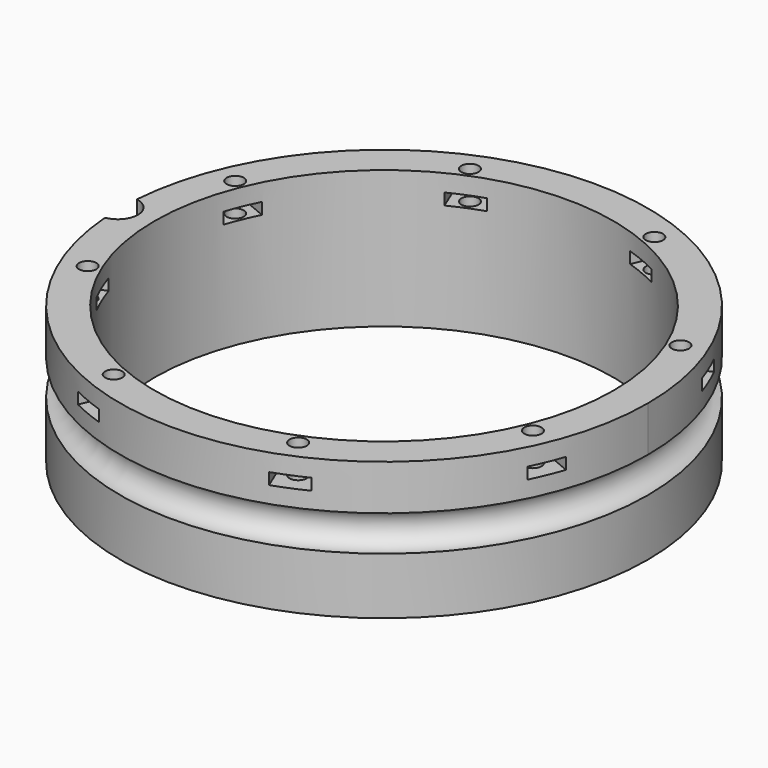
from build123d import *

# Parameters (mm, degrees)
BOX331_W                    = 6
BOX331_H                    = 8
BOX331_DEPTH                = 2
BOX331_PLACEMENT_ANGLE      = 45
BOX329_W                    = 6
BOX329_H                    = 8
BOX329_DEPTH                = 2
BOX328_W                    = 6
BOX328_H                    = 8
BOX328_DEPTH                = 2
BOX333_W                    = 6
BOX333_H                    = 8
BOX333_DEPTH                = 2
BOX333_PLACEMENT_ANGLE      = 135
BOX332_W                    = 6
BOX332_H                    = 8
BOX332_DEPTH                = 2
BOX327_W                    = 6
BOX327_H                    = 8
BOX327_DEPTH                = 2
BOX327_PLACEMENT_ANGLE      = 225
BOX330_W                    = 6
BOX330_H                    = 8
BOX330_DEPTH                = 2
BOX323_W                    = 6
BOX323_H                    = 8
BOX323_DEPTH                = 2
BOX323_PLACEMENT_ANGLE      = 45
COMPOUND696_PLACEMENT_ANGLE = 22.5
CYLINDER776_R               = 1.5
CYLINDER776_DEPTH           = 32
CYLINDER776_PLACEMENT_ANGLE = 45
CYLINDER713_R               = 1.5
CYLINDER713_DEPTH           = 32
CYLINDER712_R               = 1.5
CYLINDER712_DEPTH           = 32
CYLINDER712_PLACEMENT_ANGLE = 135
CYLINDER704_R               = 1.5
CYLINDER704_DEPTH           = 32
CYLINDER710_R               = 1.5
CYLINDER710_DEPTH           = 32
CYLINDER710_PLACEMENT_ANGLE = 225
CYLINDER711_R               = 1.5
CYLINDER711_DEPTH           = 32
CYLINDER699_R               = 1.5
CYLINDER699_DEPTH           = 32
CYLINDER699_PLACEMENT_ANGLE = 45
CYLINDER702_R               = 1.5
CYLINDER702_DEPTH           = 32
COMPOUND698_PLACEMENT_ANGLE = 22.5
CYLINDER695_R               = 3.5
CYLINDER695_DEPTH           = 20
TORUS006_R                  = 3.1
TUBE075_R                   = 46
TUBE075_R_2                 = 40
TUBE075_DEPTH               = 24


with BuildPart() as krychle331:
    # Box331 → Box331 (new body)
    with BuildSketch(Plane.XY):
        with Locations((3, 4)):
            Rectangle(BOX331_W, BOX331_H)
    extrude(amount=BOX331_DEPTH)


with BuildPart() as krychle331_1:
    # Box331 placement: moved
    add(krychle331.part.moved(Location((30.405592, -34.648232, 33))).rotate(Axis((30.405592, -34.648232, 33), (0, 0, 1)), BOX331_PLACEMENT_ANGLE))


with BuildPart() as krychle329:
    # Box329 → Box329 (new body)
    with BuildSketch(Plane(origin=(46, -3, 33), x_dir=(0, 1, 0), z_dir=(0, 0, 1))):
        with Locations((3, 4)):
            Rectangle(BOX329_W, BOX329_H)
    extrude(amount=BOX329_DEPTH)


with BuildPart() as krychle328:
    # Box328 → Box328 (new body)
    with BuildSketch(Plane(origin=(-3, -46, 33), x_dir=(1, 0, 0), z_dir=(0, 0, 1))):
        with Locations((3, 4)):
            Rectangle(BOX328_W, BOX328_H)
    extrude(amount=BOX328_DEPTH)


with BuildPart() as krychle333:
    # Box333 → Box333 (new body)
    with BuildSketch(Plane.XY):
        with Locations((3, 4)):
            Rectangle(BOX333_W, BOX333_H)
    extrude(amount=BOX333_DEPTH)


with BuildPart() as krychle333_1:
    # Box333 placement: moved
    add(krychle333.part.moved(Location((34.648232, 30.405592, 33))).rotate(Axis((34.648232, 30.405592, 33), (0, 0, 1)), BOX333_PLACEMENT_ANGLE))


with BuildPart() as krychle332:
    # Box332 → Box332 (new body)
    with BuildSketch(Plane(origin=(3, 46, 33), x_dir=(-1, 0, 0), z_dir=(0, 0, 1))):
        with Locations((3, 4)):
            Rectangle(BOX332_W, BOX332_H)
    extrude(amount=BOX332_DEPTH)


with BuildPart() as krychle327:
    # Box327 → Box327 (new body)
    with BuildSketch(Plane.XY):
        with Locations((3, 4)):
            Rectangle(BOX327_W, BOX327_H)
    extrude(amount=BOX327_DEPTH)


with BuildPart() as krychle327_1:
    # Box327 placement: moved
    add(krychle327.part.moved(Location((-30.405592, 34.648232, 33))).rotate(Axis((-30.405592, 34.648232, 33), (0, 0, 1)), BOX327_PLACEMENT_ANGLE))


with BuildPart() as krychle330:
    # Box330 → Box330 (new body)
    with BuildSketch(Plane(origin=(-46, 3, 33), x_dir=(0, -1, 0), z_dir=(0, 0, 1))):
        with Locations((3, 4)):
            Rectangle(BOX330_W, BOX330_H)
    extrude(amount=BOX330_DEPTH)


with BuildPart() as compound696:
    # Box323 → Box323 (new body)
    with BuildSketch(Plane.XY):
        with Locations((3, 4)):
            Rectangle(BOX323_W, BOX323_H)
    extrude(amount=BOX323_DEPTH)


with BuildPart() as compound696_1:
    # Box323 placement: moved
    add(compound696.part.moved(Location((-34.648232, -30.405592, 33))).rotate(Axis((-34.648232, -30.405592, 33), (0, 0, -1)), BOX323_PLACEMENT_ANGLE))

    # Compound696: union Krychle331, Krychle329, Krychle328, Krychle333, Krychle332, Krychle327, Krychle330
    add(krychle331_1.part)
    add(krychle329.part)
    add(krychle328.part)
    add(krychle333_1.part)
    add(krychle332.part)
    add(krychle327_1.part)
    add(krychle330.part)


with BuildPart() as compound696_2:
    # Compound696 placement: moved
    add(compound696_1.part.moved(Location((0, 0, 7))).rotate(Axis((0, 0, 7), (0, 0, 1)), COMPOUND696_PLACEMENT_ANGLE))


with BuildPart() as obj1:
    # Cylinder776 → Cylinder776 (new body)
    with BuildSketch(Plane.XY):
        Circle(CYLINDER776_R)
    extrude(amount=CYLINDER776_DEPTH)


with BuildPart() as obj1_1:
    # Cylinder776 placement: moved
    add(obj1.part.moved(Location((29.698485, -29.698485, 33.5))).rotate(Axis((29.698485, -29.698485, 33.5), (0, 0, 1)), CYLINDER776_PLACEMENT_ANGLE))


with BuildPart() as obj2:
    # Cylinder713 → Cylinder713 (new body)
    with BuildSketch(Plane(origin=(42, 0, 33.5), x_dir=(0, 1, 0), z_dir=(0, 0, 1))):
        Circle(CYLINDER713_R)
    extrude(amount=CYLINDER713_DEPTH)


with BuildPart() as obj3:
    # Cylinder712 → Cylinder712 (new body)
    with BuildSketch(Plane.XY):
        Circle(CYLINDER712_R)
    extrude(amount=CYLINDER712_DEPTH)


with BuildPart() as obj3_1:
    # Cylinder712 placement: moved
    add(obj3.part.moved(Location((29.698485, 29.698485, 33.5))).rotate(Axis((29.698485, 29.698485, 33.5), (0, 0, 1)), CYLINDER712_PLACEMENT_ANGLE))


with BuildPart() as obj4:
    # Cylinder704 → Cylinder704 (new body)
    with BuildSketch(Plane(origin=(0, 42, 33.5), x_dir=(-1, 0, 0), z_dir=(0, 0, 1))):
        Circle(CYLINDER704_R)
    extrude(amount=CYLINDER704_DEPTH)


with BuildPart() as obj5:
    # Cylinder710 → Cylinder710 (new body)
    with BuildSketch(Plane.XY):
        Circle(CYLINDER710_R)
    extrude(amount=CYLINDER710_DEPTH)


with BuildPart() as obj5_1:
    # Cylinder710 placement: moved
    add(obj5.part.moved(Location((-29.698485, 29.698485, 33.5))).rotate(Axis((-29.698485, 29.698485, 33.5), (0, 0, 1)), CYLINDER710_PLACEMENT_ANGLE))


with BuildPart() as obj6:
    # Cylinder711 → Cylinder711 (new body)
    with BuildSketch(Plane(origin=(-42, 0, 33.5), x_dir=(0, -1, 0), z_dir=(0, 0, 1))):
        Circle(CYLINDER711_R)
    extrude(amount=CYLINDER711_DEPTH)


with BuildPart() as obj7:
    # Cylinder699 → Cylinder699 (new body)
    with BuildSketch(Plane.XY):
        Circle(CYLINDER699_R)
    extrude(amount=CYLINDER699_DEPTH)


with BuildPart() as obj7_1:
    # Cylinder699 placement: moved
    add(obj7.part.moved(Location((-29.698485, -29.698485, 33.5))).rotate(Axis((-29.698485, -29.698485, 33.5), (0, 0, -1)), CYLINDER699_PLACEMENT_ANGLE))


with BuildPart() as compound698:
    # Cylinder702 → Cylinder702 (new body)
    with BuildSketch(Plane(origin=(0, -42, 33.5), x_dir=(1, 0, 0), z_dir=(0, 0, 1))):
        Circle(CYLINDER702_R)
    extrude(amount=CYLINDER702_DEPTH)

    # Compound698: union obj1, obj2, obj3, obj4, obj5, obj6, obj7
    add(obj1_1.part)
    add(obj2.part)
    add(obj3_1.part)
    add(obj4.part)
    add(obj5_1.part)
    add(obj6.part)
    add(obj7_1.part)


with BuildPart() as compound698_1:
    # Compound698 placement: moved
    add(compound698.part.moved(Location((0, 0, 4))).rotate(Axis((0, 0, 4), (0, 0, 1)), COMPOUND698_PLACEMENT_ANGLE))


with BuildPart() as obj8:
    # Cylinder695 → Cylinder695 (new body)
    with BuildSketch(Plane(origin=(-46.4, 0, 34), x_dir=(1, 0, 0), z_dir=(0, 0, 1))):
        Circle(CYLINDER695_R)
    extrude(amount=CYLINDER695_DEPTH)


with BuildPart() as obj9:
    # Torus006 → Torus006 (revolve)
    with BuildSketch(Plane(origin=(0, 0, 34), x_dir=(1, 0, 0), z_dir=(0, -1, 0))):
        with Locations((46, 0)):
            Circle(TORUS006_R)
    revolve(axis=Axis((0, 0, 34), (0, 0, 1)))


with BuildPart() as cut329:
    # Tube075 → Tube075 (new body)
    with BuildSketch(Plane.XY.offset(21)):
        Circle(TUBE075_R)
        Circle(TUBE075_R_2, mode=Mode.SUBTRACT)
    extrude(amount=TUBE075_DEPTH)

    # Cut325: cut obj9
    add(obj9.part, mode=Mode.SUBTRACT)

    # Cut326: cut obj8
    add(obj8.part, mode=Mode.SUBTRACT)

    # Cut328: cut Compound698
    add(compound698_1.part, mode=Mode.SUBTRACT)

    # Cut329: cut Compound696
    add(compound696_2.part, mode=Mode.SUBTRACT)


solid = cut329.part
